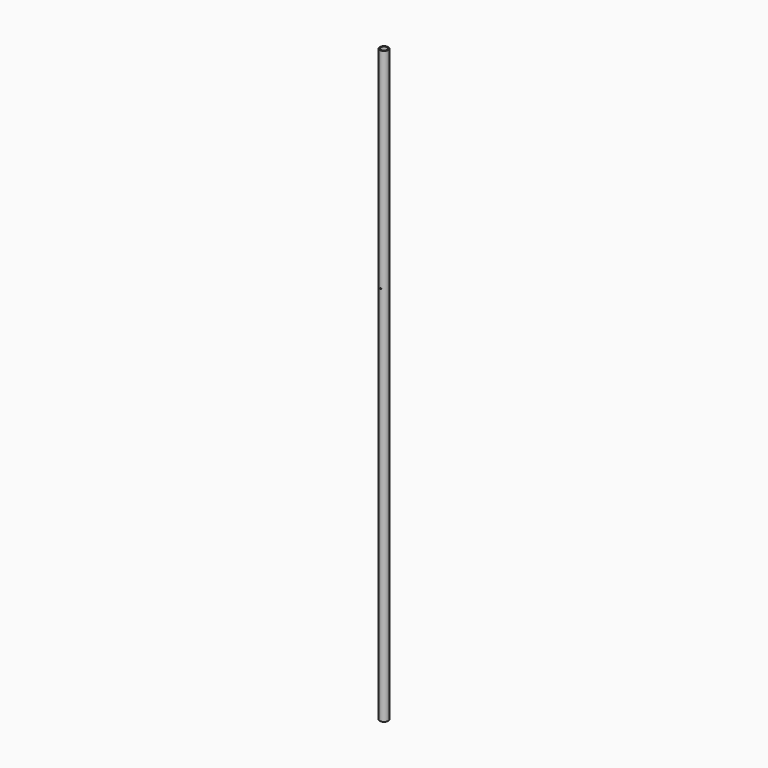
from build123d import *

# Parameters (mm, degrees)
F0_R          = 16.7005
F0_R_2        = 13.1191
F1_DEPTH      = 2362.2
F2_R          = 2.38125
F3_DEPTH      = 16.7015
F3_DEPTH_BACK = 16.7015


with BuildPart() as f1:
    # F0 (on Top) → F1 (new body)
    with BuildSketch(Plane.XY):
        Circle(F0_R)
        Circle(F0_R_2, mode=Mode.SUBTRACT)
    extrude(amount=F1_DEPTH)

    # F2 (on Front) → F3 (cut, two sides)
    with BuildSketch(Plane.XZ) as f3_sk:
        with Locations((0, 1524)):
            Circle(F2_R)
    extrude(amount=-F3_DEPTH, mode=Mode.SUBTRACT)
    extrude(f3_sk.sketch, amount=F3_DEPTH_BACK, mode=Mode.SUBTRACT)


solid = f1.part
